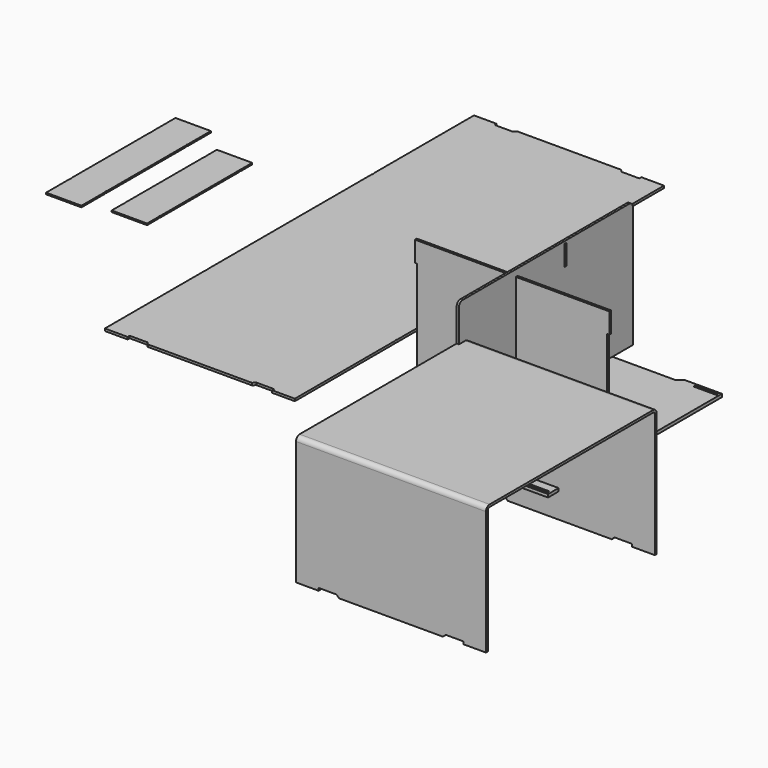
from build123d import *

# Parameters (mm, degrees)
F0_W      = 45
F0_H      = 4.5
F0_W_2    = 40.5
F1_DEPTH  = 6
F3_DEPTH  = 4.5
F4_W      = 4.5
F4_H      = 40.5
F5_DEPTH  = 4.5
F7_DEPTH  = 376
F8_W      = 45
F8_H      = 5
F9_DEPTH  = 4.5
F10_W     = 45
F10_H     = 5
F11_DEPTH = 4.5
F13_DEPTH = 4.5
F15_DEPTH = 3
F17_DEPTH = 3


with BuildPart() as f1:
    # F0 (on Top) → F1 (new body)
    with BuildSketch(Plane.XY):
        with BuildLine():
            Line((-199.4017629046, 110.4350739238), (-199.4017629046, -151.0649260762))
            Line((-199.4017629046, -151.0649260762), (-126.9728307165, -151.0649260762))
            ThreePointArc((-126.9728307165, -151.0649260762), (-125.0594135547, -150.6843237388), (-123.4372968106, -149.6004599821))
            Line((-123.4372968106, -149.6004599821), (-117.3662289987, -143.5293921703))
            ThreePointArc((-117.3662289987, -143.5293921703), (-115.7441122546, -142.4455284136), (-113.8306950928, -142.0649260762))
            Line((-113.8306950928, -142.0649260762), (100.0271692835, -142.0649260762))
            ThreePointArc((100.0271692835, -142.0649260762), (101.9405864453, -142.4455284136), (103.5627031894, -143.5293921703))
            Line((103.5627031894, -143.5293921703), (109.6337710013, -149.6004599821))
            ThreePointArc((109.6337710013, -149.6004599821), (111.2558877454, -150.6843237388), (113.1693049072, -151.0649260762))
            Line((113.1693049072, -151.0649260762), (185.5982370954, -151.0649260762))
            Line((185.5982370954, -151.0649260762), (185.5982370954, 110.4350739238))
            Line((185.5982370954, 110.4350739238), (185.5982370954, 114.9350739238))
            Line((185.5982370954, 114.9350739238), (185.5982370954, 278.9350739238))
            Line((185.5982370954, 278.9350739238), (113.1693049072, 278.9350739238))
            ThreePointArc((113.1693049072, 278.9350739238), (111.2558877454, 278.5544715864), (109.6337710013, 277.4706078297))
            Line((109.6337710013, 277.4706078297), (103.5627031894, 271.3995400179))
            ThreePointArc((103.5627031894, 271.3995400179), (101.9405864453, 270.3156762612), (100.0271692835, 269.9350739238))
            Line((100.0271692835, 269.9350739238), (-113.8306950928, 269.9350739238))
            ThreePointArc((-113.8306950928, 269.9350739238), (-115.7441122546, 270.3156762612), (-117.3662289987, 271.3995400179))
            Line((-117.3662289987, 271.3995400179), (-123.4372968106, 277.4706078297))
            ThreePointArc((-123.4372968106, 277.4706078297), (-125.0594135547, 278.5544715864), (-126.9728307165, 278.9350739238))
            Line((-126.9728307165, 278.9350739238), (-199.4017629046, 278.9350739238))
            Line((-199.4017629046, 278.9350739238), (-199.4017629046, 114.9350739238))
            Line((-199.4017629046, 114.9350739238), (-199.4017629046, 110.4350739238))
        make_face()
        with Locations((-172.4017629046, -144.8149260762)):
            Rectangle(F0_W, F0_H, mode=Mode.SUBTRACT)
        with Locations((158.5982370954, -144.8149260762)):
            Rectangle(F0_W, F0_H, mode=Mode.SUBTRACT)
        with Locations((-174.6517629046, 112.6850739238)):
            Rectangle(F0_W_2, F0_H, mode=Mode.SUBTRACT)
        with Locations((-172.4017629046, 272.6850739238)):
            Rectangle(F0_W, F0_H, mode=Mode.SUBTRACT)
        with Locations((160.8482370954, 112.6850739238)):
            Rectangle(F0_W_2, F0_H, mode=Mode.SUBTRACT)
        with Locations((158.5982370954, 272.6850739238)):
            Rectangle(F0_W, F0_H, mode=Mode.SUBTRACT)
    extrude(amount=F1_DEPTH)


with BuildPart() as f3:
    # F2 (on Front) → F3 (new body)
    with BuildSketch(Plane.XZ):
        Polygon((-150.2581751347, 14.8828048706), (-150.2581751347, 20.8828048706), (144.7418248653, 20.8828048706), (144.7418248653, 14.8828048706), (185.2418248653, 14.8828048706), (185.2418248653, 20.8828048706), (185.2418248653, 225.3828048706), (189.7418248653, 225.3828048706), (189.7418248653, 265.8828048706), (185.2418248653, 265.8828048706), (-190.7581751347, 265.8828048706), (-195.2581751347, 265.8828048706), (-195.2581751347, 225.3828048706), (-190.7581751347, 225.3828048706), (-190.7581751347, 20.8828048706), (-190.7581751347, 14.8828048706), align=None)
    extrude(amount=F3_DEPTH)


with BuildPart() as f5:
    # F4 (on Right) → F5 (new body)
    with BuildSketch(Plane.YZ):
        with BuildLine():
            Line((-145.0537979603, 270.0652094391), (-145.0537979603, 29.5652094391))
            Line((-145.0537979603, 29.5652094391), (284.9462020397, 29.5652094391))
            Line((284.9462020397, 29.5652094391), (284.9462020397, 270.0652094391))
            ThreePointArc((284.9462020397, 270.0652094391), (282.3101630704, 276.4291704698), (275.9462020397, 279.0652094391))
            Line((275.9462020397, 279.0652094391), (120.9462020397, 279.0652094391))
            Line((120.9462020397, 279.0652094391), (116.4462020397, 279.0652094391))
            Line((116.4462020397, 279.0652094391), (-136.0537979603, 279.0652094391))
            ThreePointArc((-136.0537979603, 279.0652094391), (-142.417758991, 276.4291704698), (-145.0537979603, 270.0652094391))
        make_face()
        with Locations((118.6962020397, 254.3152094391)):
            Rectangle(F4_W, F4_H, mode=Mode.SUBTRACT)
    extrude(amount=F5_DEPTH)


with BuildPart() as f7:
    # F6 (on Right) → F7 (new body)
    with BuildSketch(Plane.YZ):
        with BuildLine():
            Line((-125.0340768695, -44.0345209837), (-120.5340768695, -44.0345209837))
            Line((-120.5340768695, -44.0345209837), (-120.5340768695, 196.4654790163))
            ThreePointArc((-120.5340768695, 196.4654790163), (-123.1701158388, 202.829440047), (-129.5340768695, 205.4654790163))
            Line((-129.5340768695, 205.4654790163), (-533.5340768695, 205.4654790163))
            ThreePointArc((-533.5340768695, 205.4654790163), (-539.8980379002, 202.829440047), (-542.5340768695, 196.4654790163))
            Line((-542.5340768695, 196.4654790163), (-542.5340768695, -44.0345209837))
            Line((-542.5340768695, -44.0345209837), (-538.0340768695, -44.0345209837))
            Line((-538.0340768695, -44.0345209837), (-538.0340768695, 196.4654790163))
            ThreePointArc((-538.0340768695, 196.4654790163), (-536.7160573848, 199.6474595316), (-533.5340768695, 200.9654790163))
            Line((-533.5340768695, 200.9654790163), (-129.5340768695, 200.9654790163))
            ThreePointArc((-129.5340768695, 200.9654790163), (-126.3520963541, 199.6474595316), (-125.0340768695, 196.4654790163))
            Line((-125.0340768695, 196.4654790163), (-125.0340768695, -44.0345209837))
        make_face()
    extrude(amount=F7_DEPTH)

    # F8 (on face) → F9 (join)
    with BuildSketch(Plane.XZ.offset(542.5340768695)):
        with BuildLine():
            Line((80, -44.0345209837), (83.5355339059, -47.5700548896))
            ThreePointArc((83.5355339059, -47.5700548896), (85.15765065, -48.6539186463), (87.0710678119, -49.0345209837))
            Line((87.0710678119, -49.0345209837), (288.9289321881, -49.0345209837))
            ThreePointArc((288.9289321881, -49.0345209837), (290.84234935, -48.6539186463), (292.4644660941, -47.5700548896))
            Line((292.4644660941, -47.5700548896), (296, -44.0345209837))
            Line((296, -44.0345209837), (80, -44.0345209837))
        make_face()
        with Locations((353.5, -46.5345209837)):
            Rectangle(F8_W, F8_H)
        with Locations((22.5, -46.5345209837)):
            Rectangle(F8_W, F8_H)
    extrude(amount=-F9_DEPTH)

    # F10 (on face) → F11 (join)
    with BuildSketch(Plane(origin=(0, -120.5340768695, 0), x_dir=(-1, 0, 0), z_dir=(0, 1, 0))):
        with Locations((-353.5, -46.5345209837)):
            Rectangle(F10_W, F10_H)
        with Locations((-22.5, -46.5345209837)):
            Rectangle(F10_W, F10_H)
        Polygon((-80, -44.0345209837), (-296, -44.0345209837), (-291, -49.0345209837), (-85, -49.0345209837), align=None)
        Polygon((-376, 196.4654790163), (-376, -44.0345209837), (-331, -44.0345209837), (-296, -44.0345209837), (-80, -44.0345209837), (-45, -44.0345209837), (0, -44.0345209837), (0, 196.4654790163), align=None)
    extrude(amount=-F11_DEPTH)


with BuildPart() as f13:
    # F12 (on face) → F13 (new body)
    with BuildSketch(Plane.XY.offset(6)):
        with BuildLine():
            Line((-689.9478515867, 93.9458254219), (-689.9478515867, -152.8526124594))
            Line((-689.9478515867, -152.8526124594), (-644.9478515867, -152.8526124594))
            Line((-644.9478515867, -152.8526124594), (-644.9478515867, -147.8526124594))
            Line((-644.9478515867, -147.8526124594), (-609.9478515867, -147.8526124594))
            Line((-609.9478515867, -147.8526124594), (-604.9478515867, -152.8526124594))
            Line((-604.9478515867, -152.8526124594), (-398.9478515867, -152.8526124594))
            Line((-398.9478515867, -152.8526124594), (-393.9478515867, -147.8526124594))
            Line((-393.9478515867, -147.8526124594), (-358.9478515867, -147.8526124594))
            Line((-358.9478515867, -147.8526124594), (-358.9478515867, -152.8526124594))
            Line((-358.9478515867, -152.8526124594), (-313.9478515867, -152.8526124594))
            Line((-313.9478515867, -152.8526124594), (-313.9478515867, 93.9458254219))
            ThreePointArc((-313.9478515867, 93.9458254219), (-314.4478515867, 97.1473875406), (-313.9478515867, 100.3489496594))
            Line((-313.9478515867, 100.3489496594), (-313.9478515867, 506.9458254219))
            ThreePointArc((-313.9478515867, 506.9458254219), (-314.4478515867, 510.1473875406), (-313.9478515867, 513.3489496594))
            Line((-313.9478515867, 513.3489496594), (-313.9478515867, 760.1473875406))
            Line((-313.9478515867, 760.1473875406), (-358.9478515867, 760.1473875406))
            Line((-358.9478515867, 760.1473875406), (-358.9478515867, 755.1473875406))
            Line((-358.9478515867, 755.1473875406), (-393.9478515867, 755.1473875406))
            Line((-393.9478515867, 755.1473875406), (-398.9478515867, 760.1473875406))
            Line((-398.9478515867, 760.1473875406), (-604.9478515867, 760.1473875406))
            Line((-604.9478515867, 760.1473875406), (-609.9478515867, 755.1473875406))
            Line((-609.9478515867, 755.1473875406), (-644.9478515867, 755.1473875406))
            Line((-644.9478515867, 755.1473875406), (-644.9478515867, 760.1473875406))
            Line((-644.9478515867, 760.1473875406), (-689.9478515867, 760.1473875406))
            Line((-689.9478515867, 760.1473875406), (-689.9478515867, 513.3489496594))
            ThreePointArc((-689.9478515867, 513.3489496594), (-689.4478515867, 510.1473875406), (-689.9478515867, 506.9458254219))
            Line((-689.9478515867, 506.9458254219), (-689.9478515867, 100.3489496594))
            ThreePointArc((-689.9478515867, 100.3489496594), (-689.4478515867, 97.1473875406), (-689.9478515867, 93.9458254219))
        make_face()
    extrude(amount=F13_DEPTH)


with BuildPart() as f15:
    # F14 (on face) → F15 (new body)
    with BuildSketch(Plane.XY.offset(10.5)):
        with BuildLine():
            Line((-854.768217802, 417.7094859497), (-924.768217802, 417.7094859497))
            Line((-924.768217802, 417.7094859497), (-924.768217802, 390.9110480684))
            ThreePointArc((-924.768217802, 390.9110480684), (-924.268217802, 387.7094859497), (-924.768217802, 384.507923831))
            Line((-924.768217802, 384.507923831), (-924.768217802, 190.9110480684))
            ThreePointArc((-924.768217802, 190.9110480684), (-924.268217802, 187.7094859497), (-924.768217802, 184.507923831))
            Line((-924.768217802, 184.507923831), (-924.768217802, 157.7094859497))
            Line((-924.768217802, 157.7094859497), (-854.768217802, 157.7094859497))
            Line((-854.768217802, 157.7094859497), (-854.768217802, 184.507923831))
            ThreePointArc((-854.768217802, 184.507923831), (-855.268217802, 187.7094859497), (-854.768217802, 190.9110480684))
            Line((-854.768217802, 190.9110480684), (-854.768217802, 384.507923831))
            ThreePointArc((-854.768217802, 384.507923831), (-855.268217802, 387.7094859497), (-854.768217802, 390.9110480684))
            Line((-854.768217802, 390.9110480684), (-854.768217802, 417.7094859497))
        make_face()
    extrude(amount=F15_DEPTH)


with BuildPart() as f17:
    # F16 (on face) → F17 (new body)
    with BuildSketch(Plane.XY.offset(10.5)):
        with BuildLine():
            Line((-971.1563087912, 460.8797235596), (-1041.1563087912, 460.8797235596))
            Line((-1041.1563087912, 460.8797235596), (-1041.1563087912, 404.0812856783))
            ThreePointArc((-1041.1563087912, 404.0812856783), (-1040.6563087912, 400.8797235596), (-1041.1563087912, 397.6781614409))
            Line((-1041.1563087912, 397.6781614409), (-1041.1563087912, 204.0812856783))
            ThreePointArc((-1041.1563087912, 204.0812856783), (-1040.6563087912, 200.8797235596), (-1041.1563087912, 197.6781614409))
            Line((-1041.1563087912, 197.6781614409), (-1041.1563087912, 140.8797235596))
            Line((-1041.1563087912, 140.8797235596), (-971.1563087912, 140.8797235596))
            Line((-971.1563087912, 140.8797235596), (-971.1563087912, 197.6781614409))
            ThreePointArc((-971.1563087912, 197.6781614409), (-971.6563087912, 200.8797235596), (-971.1563087912, 204.0812856783))
            Line((-971.1563087912, 204.0812856783), (-971.1563087912, 397.6781614409))
            ThreePointArc((-971.1563087912, 397.6781614409), (-971.6563087912, 400.8797235596), (-971.1563087912, 404.0812856783))
            Line((-971.1563087912, 404.0812856783), (-971.1563087912, 460.8797235596))
        make_face()
    extrude(amount=F17_DEPTH)


solid = Compound([f1.part, f3.part, f5.part, f7.part, f13.part, f15.part, f17.part])
